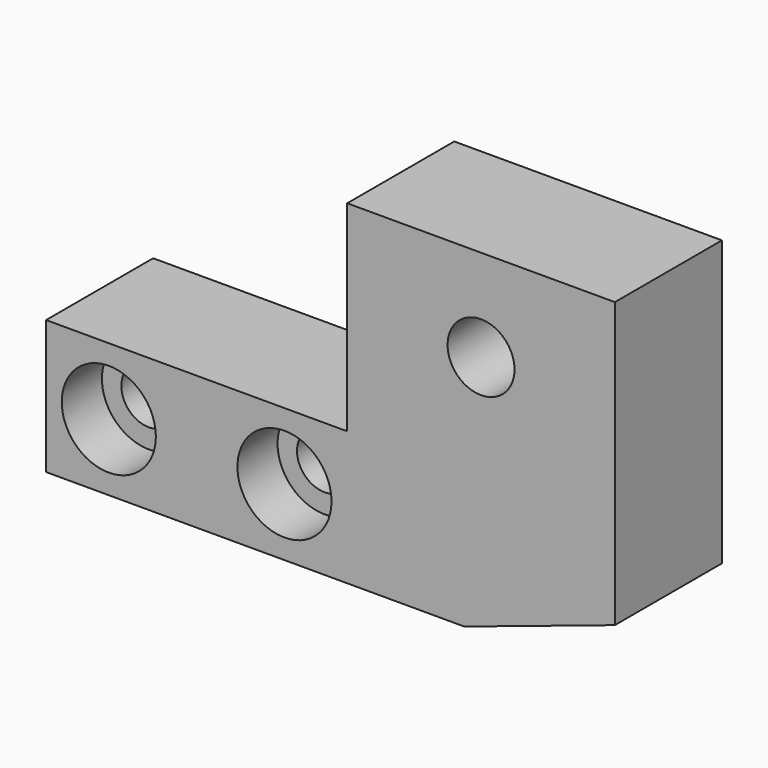
from build123d import *

# Parameters (mm, degrees)
F0_R           = 4
F1_DEPTH       = 16
F2_D           = 6.6
F2_CBORE_D     = 11.25
F2_CBORE_DEPTH = 6


with BuildPart() as f1:
    # F0 (on Front) → F1 (new body)
    with BuildSketch(Plane.XZ):
        Polygon((34, -14), (34, 20), (2, 20.000000016), (2, -4), (-34, -4), (-34, -20), (16, -20), align=None)
        with Locations((18, 9)):
            Circle(F0_R, mode=Mode.SUBTRACT)
    extrude(amount=-F1_DEPTH)

    # F2 (through all)
    with Locations(Plane.XZ):
        with Locations((-26.5, -12), (-5.5, -12)):
            CounterBoreHole(F2_D / 2, F2_CBORE_D / 2, F2_CBORE_DEPTH)


solid = f1.part
